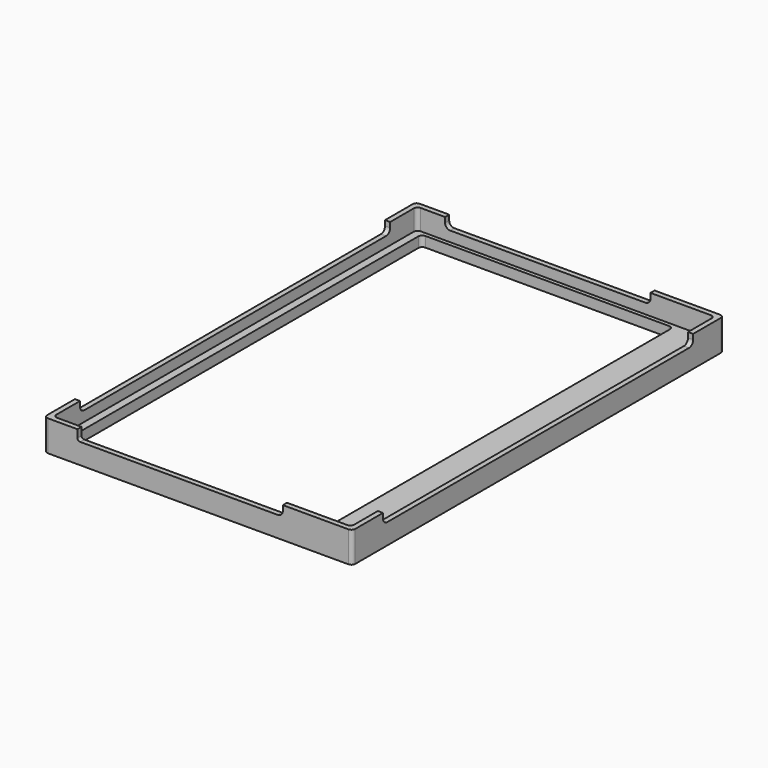
from build123d import *

# Parameters (mm, degrees)
BOX004_W      = 10
BOX004_H      = 151
BOX004_DEPTH  = 10
BOX006_W      = 80
BOX006_H      = 10
BOX006_DEPTH  = 10
BOX005_W      = 10
BOX005_H      = 151
BOX005_DEPTH  = 10
BOX007_W      = 80
BOX007_H      = 10
BOX007_DEPTH  = 10
FILLET004_1_R = 2
FILLET004_2_R = 1
BOX003_W      = 116
BOX003_H      = 177
BOX003_DEPTH  = 10
FILLET002_R   = 1.5
BOX002_W      = 120
BOX002_H      = 181
BOX002_DEPTH  = 8
FILLET003_R   = 1.5
BOX001_W      = 98
BOX001_H      = 173.5
BOX001_DEPTH  = 4
FILLET_R      = 1.5
BOX_W         = 120
BOX_H         = 181
BOX_DEPTH     = 4
FILLET001_R   = 1.5


with BuildPart() as cube004:
    # Box004 → Box004 (new body)
    with BuildSketch(Plane(origin=(115, 15, 0), x_dir=(1, 0, 0), z_dir=(0, 0, 1))):
        with Locations((5, 75.5)):
            Rectangle(BOX004_W, BOX004_H)
    extrude(amount=BOX004_DEPTH)


with BuildPart() as cube006:
    # Box006 → Box006 (new body)
    with BuildSketch(Plane(origin=(15, -5, 0), x_dir=(1, 0, 0), z_dir=(0, 0, 1))):
        with Locations((40, 5)):
            Rectangle(BOX006_W, BOX006_H)
    extrude(amount=BOX006_DEPTH)


with BuildPart() as cube005:
    # Box005 → Box005 (new body)
    with BuildSketch(Plane(origin=(0, 15, 0), x_dir=(1, 0, 0), z_dir=(0, 0, 1))):
        with Locations((5, 75.5)):
            Rectangle(BOX005_W, BOX005_H)
    extrude(amount=BOX005_DEPTH)


with BuildPart() as fillet004:
    # Box007 → Box007 (new body)
    with BuildSketch(Plane(origin=(15, 175, 0), x_dir=(1, 0, 0), z_dir=(0, 0, 1))):
        with Locations((40, 5)):
            Rectangle(BOX007_W, BOX007_H)
    extrude(amount=BOX007_DEPTH)

    # Fusion: union Cube004, Cube006, Cube005
    add(cube004.part)
    add(cube006.part)
    add(cube005.part)


with BuildPart() as fillet004_1:
    # Fusion placement: moved
    add(fillet004.part.moved(Location((0, 0, 8))))

    # Fillet004 1
    fillet004_1_edges = [fillet004_1.edges().sort_by_distance(p)[0] for p in [
        (15, 180, 8),
        (95, 180, 8),
        (120, 15, 8),
        (120, 166, 8),
        (95, 0, 8),
        (5, 15, 8),
        (5, 166, 8),
    ]]
    fillet(fillet004_1_edges, radius=FILLET004_1_R)

    # Fillet004 2
    fillet004_2_edges = [fillet004_1.edges().sort_by_distance(p)[0] for p in [
        (15, 0, 8),
    ]]
    fillet(fillet004_2_edges, radius=FILLET004_2_R)


with BuildPart() as fillet002:
    # Box003 → Box003 (new body)
    with BuildSketch(Plane(origin=(4, 2, 4), x_dir=(1, 0, 0), z_dir=(0, 0, 1))):
        with Locations((58, 88.5)):
            Rectangle(BOX003_W, BOX003_H)
    extrude(amount=BOX003_DEPTH)

    # Fillet002
    fillet002_edges = [fillet002.edges().sort_by_distance(p)[0] for p in [
        (4, 2, 9),
        (4, 179, 9),
        (120, 2, 9),
        (120, 179, 9),
    ]]
    fillet(fillet002_edges, radius=FILLET002_R)


with BuildPart() as cut002:
    # Box002 → Box002 (new body)
    with BuildSketch(Plane(origin=(2, 0, 4), x_dir=(1, 0, 0), z_dir=(0, 0, 1))):
        with Locations((60, 90.5)):
            Rectangle(BOX002_W, BOX002_H)
    extrude(amount=BOX002_DEPTH)

    # Fillet003
    fillet003_edges = [cut002.edges().sort_by_distance(p)[0] for p in [
        (2, 0, 8),
        (2, 181, 8),
        (122, 0, 8),
        (122, 181, 8),
    ]]
    fillet(fillet003_edges, radius=FILLET003_R)

    # Cut001: cut Fillet002
    add(fillet002.part, mode=Mode.SUBTRACT)

    # Cut002: cut Fillet004
    add(fillet004_1.part, mode=Mode.SUBTRACT)


with BuildPart() as fillet_body:
    # Box001 → Box001 (new body)
    with BuildSketch(Plane(origin=(7, 4, 0), x_dir=(1, 0, 0), z_dir=(0, 0, 1))):
        with Locations((49, 86.75)):
            Rectangle(BOX001_W, BOX001_H)
    extrude(amount=BOX001_DEPTH)

    # Fillet
    fillet_edges = [fillet_body.edges().sort_by_distance(p)[0] for p in [
        (7, 4, 2),
        (7, 177.5, 2),
        (105, 4, 2),
        (105, 177.5, 2),
    ]]
    fillet(fillet_edges, radius=FILLET_R)


with BuildPart() as fusion001:
    # Box → Box (new body)
    with BuildSketch(Plane(origin=(2, 0, 0), x_dir=(1, 0, 0), z_dir=(0, 0, 1))):
        with Locations((60, 90.5)):
            Rectangle(BOX_W, BOX_H)
    extrude(amount=BOX_DEPTH)

    # Fillet001
    fillet001_edges = [fusion001.edges().sort_by_distance(p)[0] for p in [
        (2, 0, 2),
        (2, 181, 2),
        (122, 0, 2),
        (122, 181, 2),
    ]]
    fillet(fillet001_edges, radius=FILLET001_R)

    # Cut: cut Fillet body
    add(fillet_body.part, mode=Mode.SUBTRACT)

    # Fusion001: union Cut002
    add(cut002.part)


solid = fusion001.part
